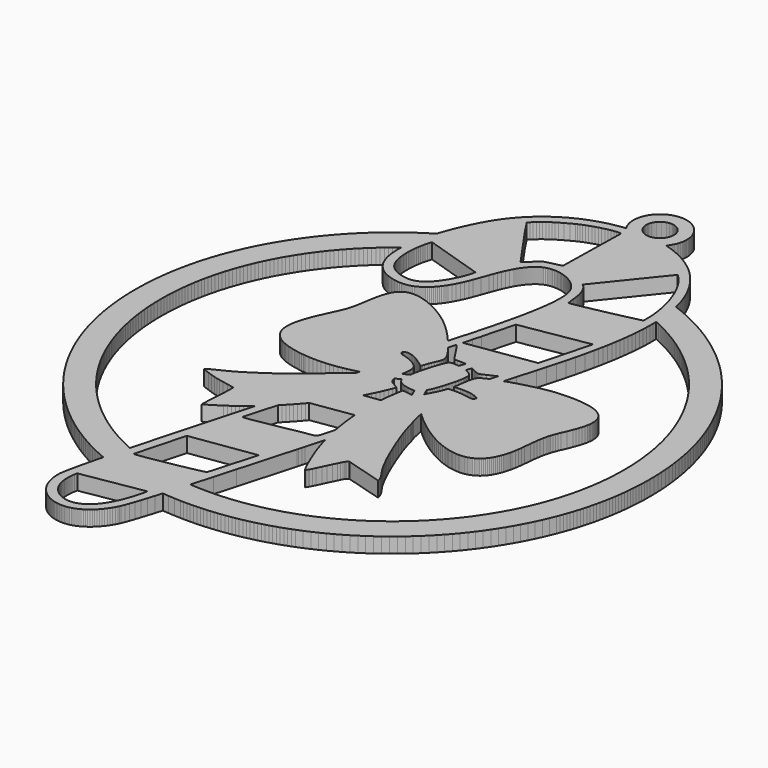
from build123d import *

# Parameters (mm, degrees)
F1_DEPTH = 3


with BuildPart() as f1:
    # F0 (on Top) → F1 (new body)
    with BuildSketch(Plane.XY):
        Polygon((0.271043, 67.329761), (2.5e-05, 67.336594), (-0.271018, 67.329761), (-0.53848, 67.309416), (-0.802081, 67.275913), (-1.061441, 67.229584), (-1.316253, 67.170783), (-1.566189, 67.099815), (-1.810918, 67.017011), (-2.050085, 66.922701), (-2.283384, 66.817215), (-2.510485, 66.700908), (-2.731059, 66.574086), (-2.944749, 66.437078), (-3.151251, 66.290241), (-3.350209, 66.133878), (-3.541319, 65.968347), (-3.72425, 65.79395), (-3.898621, 65.611019), (-4.064178, 65.41991), (-4.22054, 65.220952), (-4.367378, 65.01445), (-4.504385, 64.800759), (-4.631207, 64.580186), (-4.747514, 64.353084), (-4.852975, 64.119785), (-4.947285, 63.880619), (-5.030089, 63.63589), (-5.101082, 63.385954), (-5.159883, 63.131141), (-5.206213, 62.871782), (-5.23969, 62.608206), (-5.260035, 62.340719), (-5.266893, 62.069701), (-5.253228, 61.687532), (-5.212842, 61.312781), (-5.1467, 60.94636), (-5.055768, 60.589185), (-4.940935, 60.242221), (-4.803165, 59.906357), (-4.643399, 59.582533), (-4.462577, 59.271687), (-5.063998, 59.20298), (-5.664606, 59.119084), (-6.264046, 59.020024), (-6.861886, 58.905826), (-7.45777, 58.776464), (-8.051292, 58.632014), (-8.642045, 58.472451), (-9.229649, 58.297801), (-9.813696, 58.108063), (-10.393807, 57.903313), (-10.969574, 57.683502), (-11.540617, 57.448679), (-12.106554, 57.198844), (-12.666955, 56.934024), (-13.221437, 56.654243), (-13.769619, 56.359527), (-14.311097, 56.04985), (-14.845487, 55.725263), (-15.37241, 55.385767), (-15.891408, 55.031386), (-16.402177, 54.662121), (-16.904233, 54.278022), (-17.397247, 53.879064), (-17.880813, 53.465298), (-18.354523, 53.036724), (-18.817971, 52.593367), (-19.270777, 52.135227), (-19.712559, 51.662355), (-20.142937, 51.174726), (-20.561452, 50.67239), (-20.967776, 50.155323), (-21.361502, 49.623574), (-21.649919, 49.209249), (-21.947353, 48.756621), (-22.252153, 48.267823), (-22.562693, 47.74499), (-22.877348, 47.190279), (-23.194442, 46.605749), (-23.512399, 45.993609), (-23.829543, 45.355916), (-24.144224, 44.694831), (-24.454866, 44.01251), (-24.759793, 43.311013), (-25.057379, 42.592549), (-25.346, 41.859175), (-25.624003, 41.11305), (-25.889763, 40.356307), (-26.141655, 39.591082), (-26.830553, 39.169289), (-27.512162, 38.73693), (-28.18638, 38.294107), (-28.853105, 37.840945), (-29.512209, 37.377548), (-30.163592, 36.904016), (-30.807101, 36.420501), (-31.442685, 35.927081), (-32.070167, 35.423881), (-32.68947, 34.911005), (-33.300467, 34.388603), (-33.903056, 33.856752), (-34.497086, 33.31558), (-35.08248, 32.765213), (-35.659136, 32.205727), (-36.226902, 31.6373), (-36.785677, 31.059984), (-37.335333, 30.473929), (-37.875794, 29.879214), (-38.406908, 29.275989), (-38.928573, 28.664383), (-39.440688, 28.044445), (-39.943126, 27.416354), (-40.435759, 26.780185), (-40.918511, 26.136067), (-41.39123, 25.484099), (-41.85379, 24.824411), (-42.306138, 24.157127), (-42.748098, 23.482351), (-43.179594, 22.800183), (-43.600522, 22.110751), (-44.010707, 21.414156), (-44.410097, 20.710525), (-44.798539, 19.999985), (-45.175932, 19.282613), (-45.542149, 18.558561), (-45.897114, 17.82793), (-46.240675, 17.090822), (-46.572729, 16.347364), (-46.893175, 15.597657), (-47.201861, 14.84183), (-47.498711, 14.080007), (-47.783598, 13.312267), (-48.056419, 12.538761), (-48.317023, 11.759565), (-48.565333, 10.974832), (-48.801223, 10.184638), (-49.024591, 9.389135), (-49.235284, 8.588426), (-49.433226, 7.782585), (-49.618265, 6.971792), (-49.79035, 6.156122), (-49.949303, 5.335676), (-50.095023, 4.510608), (-50.227433, 3.681019), (-50.346381, 2.84701), (-50.451766, 2.008683), (-50.54346, 1.16619), (-50.621362, 0.319634), (-50.68537, -0.530911), (-50.735332, -1.385265), (-50.771171, -2.243379), (-50.792761, -3.105074), (-50.799975, -3.970299), (-50.790602, -4.956708), (-50.762535, -5.938571), (-50.716002, -6.915658), (-50.651131, -7.887843), (-50.568123, -8.854948), (-50.467108, -9.816821), (-50.348286, -10.773258), (-50.211838, -11.724107), (-50.057888, -12.66919), (-49.886641, -13.608329), (-49.69825, -14.541398), (-49.492916, -15.468194), (-49.270768, -16.388537), (-49.032008, -17.302302), (-48.776763, -18.20926), (-48.505237, -19.109309), (-48.217607, -20.002221), (-47.914027, -20.887842), (-47.594672, -21.766022), (-47.259697, -22.636607), (-46.909279, -23.499369), (-46.543595, -24.35418), (-46.162824, -25.200864), (-45.767117, -26.039242), (-45.356628, -26.869161), (-44.931584, -27.690445), (-44.492088, -28.502915), (-44.038342, -29.306418), (-43.570525, -30.100778), (-43.088789, -30.885816), (-42.593311, -31.661354), (-42.084269, -32.427266), (-41.561817, -33.183347), (-41.026131, -33.929447), (-40.477364, -34.665361), (-39.915719, -35.390963), (-39.341349, -36.106075), (-38.754406, -36.810518), (-38.155093, -37.504116), (-37.543562, -38.18669), (-36.919992, -38.858114), (-36.284535, -39.518184), (-35.637368, -40.166747), (-34.978645, -40.803601), (-34.308593, -41.428619), (-33.627314, -42.041623), (-32.935012, -42.642434), (-32.231863, -43.230876), (-31.517996, -43.806796), (-30.793639, -44.370015), (-30.058919, -44.920357), (-29.314013, -45.457669), (-28.5591, -45.981772), (-27.794356, -46.49249), (-27.019936, -46.98967), (-26.23599, -47.473133), (-25.442748, -47.942703), (-24.640311, -48.398252), (-23.828908, -48.839552), (-23.008666, -49.26645), (-22.179763, -49.678819), (-21.342375, -50.07643), (-20.496682, -50.459157), (-19.642861, -50.826797), (-20.029068, -52.36906), (-20.382255, -53.813583), (-20.69719, -55.142867), (-20.968589, -56.33941), (-21.191271, -57.385661), (-21.359978, -58.264146), (-21.469452, -58.957337), (-21.500363, -59.228965), (-21.514486, -59.447709), (-21.517864, -59.805367), (-21.507348, -60.157436), (-21.48332, -60.503765), (-21.446033, -60.844074), (-21.395893, -61.178211), (-21.333181, -61.505922), (-21.258251, -61.827029), (-21.171459, -62.141278), (-21.073085, -62.448491), (-20.963484, -62.748439), (-20.842986, -63.04092), (-20.711947, -63.325705), (-20.570647, -63.602591), (-20.419466, -63.871373), (-20.25871, -64.131825), (-20.088708, -64.383768), (-19.909815, -64.626922), (-19.722338, -64.861161), (-19.526606, -65.086179), (-19.322974, -65.301851), (-19.111747, -65.507895), (-18.893282, -65.704161), (-18.667908, -65.890394), (-18.435955, -66.066365), (-18.197728, -66.231922), (-17.953558, -66.386812), (-17.703825, -66.53083), (-17.448835, -66.663748), (-17.188891, -66.785388), (-16.92435, -66.895497), (-16.655567, -66.993897), (-16.382822, -67.080359), (-16.106496, -67.154679), (-15.826867, -67.21663), (-15.544317, -67.266007), (-15.259152, -67.302609), (-14.9717, -67.326231), (-14.682318, -67.336619), (-14.39131, -67.333597), (-14.099032, -67.316934), (-13.805764, -67.286429), (-13.511911, -67.241852), (-13.217754, -67.183025), (-12.923622, -67.109696), (-12.629896, -67.021685), (-12.336856, -66.918738), (-12.044832, -66.800705), (-11.754206, -66.667304), (-11.465255, -66.518384), (-11.178337, -66.35369), (-10.893806, -66.173045), (-10.611942, -65.976195), (-10.333101, -65.762962), (-10.057613, -65.533118), (-9.785807, -65.286433), (-9.51804, -65.02273), (-9.254617, -64.741781), (-8.995867, -64.443381), (-8.742121, -64.127304), (-8.493709, -63.793345), (-8.250987, -63.441275), (-8.014284, -63.070918), (-7.783906, -62.682044), (-7.560183, -62.274425), (-7.46031, -62.072114), (-7.349922, -61.824184), (-7.099351, -61.198328), (-6.811848, -60.4107), (-6.490792, -59.475141), (-6.139536, -58.405471), (-5.761482, -57.215557), (-5.359984, -55.919218), (-4.938395, -54.53032), (-3.715537, -54.634282), (-2.484704, -54.70939), (-1.246099, -54.754958), (-0.623976, -54.766439), (2.5e-05, -54.770299), (0.65659, -54.766134), (1.311173, -54.753713), (1.963725, -54.733038), (2.614168, -54.704183), (3.262478, -54.667226), (3.908577, -54.622167), (4.552442, -54.569081), (5.194021, -54.508019), (5.833237, -54.439033), (6.470066, -54.362147), (7.104456, -54.277463), (7.736332, -54.184956), (8.365693, -54.084753), (8.992438, -53.976854), (9.616542, -53.861335), (10.237978, -53.738221), (10.856646, -53.607589), (11.47252, -53.469464), (12.085549, -53.323922), (12.695707, -53.170988), (13.302894, -53.010714), (13.90711, -52.843176), (14.508277, -52.668399), (15.106345, -52.486433), (15.701289, -52.29733), (16.293033, -52.101166), (16.881526, -51.897966), (17.466742, -51.687781), (18.048605, -51.470662), (18.627065, -51.246634), (19.773646, -50.778181), (20.906054, -50.282805), (22.023883, -49.760886), (23.126751, -49.212805), (24.214277, -48.639019), (25.28603, -48.039884), (26.341629, -47.415831), (27.380667, -46.767217), (28.402737, -46.094472), (29.40746, -45.397979), (30.394427, -44.678143), (31.363234, -43.935371), (32.313499, -43.170069), (33.244815, -42.382592), (34.156752, -41.573399), (35.048952, -40.742845), (35.92101, -39.891335), (36.77252, -39.019302), (37.603074, -38.127102), (38.412268, -37.21514), (39.199744, -36.283849), (39.965046, -35.333584), (40.707818, -34.364778), (41.427654, -33.37781), (42.124147, -32.373087), (42.796892, -31.351017), (43.445506, -30.311979), (44.069584, -29.25638), (44.668719, -28.184627), (45.242505, -27.097101), (45.790561, -25.994233), (46.31248, -24.876379), (46.807882, -23.743971), (47.276334, -22.597389), (47.500337, -22.01893), (47.717456, -21.437067), (47.927666, -20.851851), (48.130866, -20.263358), (48.327031, -19.671614), (48.516134, -19.076695), (48.698099, -18.478602), (48.872877, -17.877434), (49.040415, -17.273219), (49.200689, -16.666032), (49.353622, -16.055873), (49.499164, -15.442844), (49.63729, -14.826971), (49.767922, -14.208277), (49.891036, -13.586866), (50.006555, -12.962763), (50.114454, -12.335993), (50.214682, -11.706657), (50.307164, -11.074756), (50.391873, -10.440365), (50.468733, -9.803536), (50.53772, -9.16432), (50.598781, -8.522741), (50.651867, -7.878877), (50.696927, -7.232777), (50.733909, -6.584467), (50.762738, -5.934024), (50.783414, -5.281473), (50.79586, -4.626889), (50.8, -3.970299), (50.790043, -2.954071), (50.760274, -1.942719), (50.710897, -0.936396), (50.642088, 0.064694), (50.554026, 1.060374), (50.446889, 2.05044), (50.320905, 3.034741), (50.176201, 4.013073), (50.013006, 4.985233), (49.831498, 5.951068), (49.631854, 6.910375), (49.414278, 7.862951), (49.178921, 8.808644), (48.925988, 9.747275), (48.655656, 10.678617), (48.368128, 11.602517), (48.063582, 12.518771), (47.742196, 13.427202), (47.404147, 14.327657), (47.049665, 15.219883), (46.678875, 16.103752), (46.292008, 16.979036), (45.889215, 17.845608), (45.470724, 18.703214), (45.036664, 19.551726), (44.587287, 20.390917), (44.122721, 21.220633), (43.643169, 22.040672), (43.148834, 22.850831), (42.639894, 23.650981), (42.116527, 24.440871), (41.578911, 25.220371), (41.027248, 25.989255), (40.461717, 26.747343), (39.882496, 27.494484), (39.289787, 28.230449), (38.683768, 28.955086), (38.064618, 29.668216), (37.432539, 30.369612), (36.787684, 31.05912), (36.130255, 31.736538), (35.460457, 32.401688), (34.778467, 33.054392), (34.084463, 33.694446), (33.378623, 34.321699), (32.661123, 34.935947), (31.932194, 35.536988), (31.191962, 36.124642), (30.440681, 36.698758), (29.678478, 37.259108), (28.905556, 37.805512), (28.122118, 38.33782), (27.328317, 38.855828), (26.524356, 39.359332), (25.710439, 39.848155), (24.886742, 40.322144), (24.053419, 40.781072), (23.210672, 41.224759), (22.358706, 41.653054), (21.497696, 42.065727), (20.627848, 42.462628), (19.749287, 42.843552), (18.862243, 43.208346), (17.966919, 43.556758), (17.826533, 44.131306), (17.672837, 44.700393), (17.505553, 45.263918), (17.324426, 45.821803), (17.129252, 46.373923), (16.919727, 46.920175), (16.695598, 47.460484), (16.45666, 47.994722), (16.202635, 48.522788), (15.933242, 49.044555), (15.64828, 49.559972), (15.347467, 50.068912), (15.030552, 50.571273), (14.697304, 51.066929), (14.347444, 51.555802), (13.980719, 52.037767), (13.735456, 52.343736), (13.484733, 52.643126), (13.22865, 52.935962), (12.96736, 53.22222), (12.70094, 53.501925), (12.42949, 53.775077), (12.153113, 54.041675), (11.871935, 54.30172), (11.586058, 54.555238), (11.295583, 54.802227), (11.000613, 55.042664), (10.701274, 55.276598), (10.397617, 55.504004), (10.08982, 55.724908), (9.777933, 55.939309), (9.462084, 56.147183), (8.818931, 56.543473), (8.161198, 56.913805), (7.489749, 57.258229), (6.805371, 57.576796), (6.108979, 57.869506), (5.401386, 58.13646), (4.683455, 58.377633), (3.956025, 58.593126), (4.105199, 58.770393), (4.246575, 58.954162), (4.379951, 59.14423), (4.50502, 59.340293), (4.621555, 59.542096), (4.729302, 59.749436), (4.828007, 59.962009), (4.917389, 60.179585), (4.997221, 60.401911), (5.067249, 60.628733), (5.127193, 60.859772), (5.176799, 61.094798), (5.215839, 61.333558), (5.244033, 61.575798), (5.261153, 61.821263), (5.266919, 62.069701), (5.260061, 62.340719), (5.239715, 62.608206), (5.206213, 62.871782), (5.159908, 63.131141), (5.101082, 63.385954), (5.030114, 63.63589), (4.94731, 63.880619), (4.853, 64.119785), (4.747539, 64.353084), (4.631207, 64.580186), (4.504385, 64.800759), (4.367403, 65.01445), (4.220566, 65.220952), (4.064203, 65.41991), (3.898646, 65.611019), (3.72425, 65.79395), (3.541344, 65.968347), (3.350235, 66.133878), (3.151276, 66.290241), (2.944774, 66.437078), (2.731084, 66.574086), (2.510511, 66.700908), (2.283409, 66.817215), (2.05011, 66.922701), (1.810944, 67.017011), (1.566215, 67.099815), (1.316279, 67.170783), (1.061466, 67.229584), (0.802107, 67.275913), (0.538531, 67.309416), align=None)
        Polygon((-19.521526, -58.08124), (-19.415074, -57.546469), (-7.197877, -55.48437), (-7.3787, -56.312816), (-7.586878, -57.143853), (-7.822794, -57.97103), (-7.951267, -58.381138), (-8.086801, -58.787843), (-8.229473, -59.190357), (-8.379282, -59.587867), (-8.53633, -59.97956), (-8.700618, -60.364599), (-8.872195, -60.74222), (-9.051112, -61.111613), (-9.237447, -61.471912), (-9.431198, -61.822381), (-9.632442, -62.162182), (-9.841205, -62.490477), (-10.057536, -62.806504), (-10.281514, -63.109424), (-10.513136, -63.398451), (-10.75248, -63.672745), (-10.999572, -63.931546), (-11.254486, -64.173989), (-11.517224, -64.399312), (-11.787861, -64.606678), (-12.066448, -64.795273), (-12.353011, -64.964335), (-12.647625, -65.113002), (-12.950292, -65.24051), (-13.261086, -65.345996), (-13.580059, -65.428698), (-13.862456, -65.480159), (-14.150569, -65.511782), (-14.443177, -65.523669), (-14.739087, -65.515846), (-15.037054, -65.488414), (-15.335885, -65.441398), (-15.63436, -65.374876), (-15.931236, -65.288897), (-16.225317, -65.183537), (-16.515359, -65.058823), (-16.80017, -64.914856), (-17.078554, -64.751687), (-17.349241, -64.56934), (-17.611039, -64.367918), (-17.862728, -64.147471), (-18.103113, -63.908051), (-18.330926, -63.649708), (-18.544997, -63.372543), (-18.744082, -63.076557), (-18.926988, -62.761851), (-19.092443, -62.428501), (-19.239306, -62.076508), (-19.366281, -61.705998), (-19.472224, -61.316972), (-19.555866, -60.90953), (-19.615988, -60.483725), (-19.651421, -60.039606), (-19.660895, -59.577224), (-19.643217, -59.096681), (-19.597167, -58.597978), align=None, mode=Mode.SUBTRACT)
        Polygon((-1.347495, -35.332594), (-1.631493, -36.335208), (-4.040962, -44.733413), (-4.347337, -44.822186), (-4.85775, -44.945732), (-5.542305, -45.098208), (-6.371158, -45.273798), (-8.342351, -45.670775), (-10.532389, -46.089926), (-12.702388, -46.484413), (-14.613433, -46.807476), (-15.397175, -46.927592), (-16.026587, -47.012301), (-16.471824, -47.055761), (-16.61602, -47.06018), (-16.702989, -47.052103), (-14.051966, -37.197208), align=None, mode=Mode.SUBTRACT)
        Polygon((2.488006, -20.623276), (2.619426, -21.330031), (1.711122, -24.536197), (1.59954, -24.616842), (1.487094, -24.685879), (1.372235, -24.74468), (1.253363, -24.794591), (1.128954, -24.837009), (0.997433, -24.873255), (0.706831, -24.932767), (-0.02827, -25.037999), (-0.497713, -25.105538), (-1.051687, -25.197613), (-3.341954, -25.633883), (-4.897323, -25.932841), (-6.543827, -26.242874), (-8.144789, -26.531875), (-9.563456, -26.767688), (-10.161702, -26.855598), (-10.663098, -26.918183), (-11.050549, -26.951432), (-11.196218, -26.955775), (-11.306962, -26.951305), (-9.46056, -20.433589), (-9.031402, -20.004202), (-8.606993, -19.568693), (-8.187487, -19.127191), (-7.77301, -18.67977), (-7.363714, -18.226557), (-6.959702, -17.767656), (-6.56115, -17.303166), (-6.168161, -16.833215), (1.868221, -15.61404), (1.923669, -16.334562), (1.990369, -17.053865), (2.068195, -17.771694), (2.156993, -18.487796), (2.256663, -19.201917), (2.367051, -19.913829), align=None, mode=Mode.SUBTRACT)
        Polygon((-28.034767, 32.14436), (-27.519478, 32.539102), (-27.536318, 31.909944), (-27.529536, 31.291886), (-27.498091, 30.686248), (-27.440941, 30.094403), (-27.357019, 29.517721), (-27.304721, 29.235476), (-27.245335, 28.957524), (-27.178737, 28.684042), (-27.104797, 28.415209), (-27.023365, 28.151176), (-26.934363, 27.892096), (-26.837615, 27.638172), (-26.733017, 27.389557), (-26.620419, 27.146428), (-26.499693, 26.908963), (-26.370737, 26.677315), (-26.233374, 26.451636), (-26.087502, 26.232129), (-25.932994, 26.018973), (-25.769697, 25.812293), (-25.597485, 25.612293), (-25.416256, 25.419126), (-25.225858, 25.23297), (-25.026163, 25.053976), (-24.817045, 24.882348), (-24.598351, 24.718213), (-24.369979, 24.5618), (-24.05954, 24.370792), (-23.734598, 24.19383), (-23.396981, 24.031397), (-23.04857, 23.883925), (-22.691166, 23.751921), (-22.326676, 23.635843), (-21.956903, 23.536173), (-21.583701, 23.453344), (-21.208949, 23.387863), (-20.834452, 23.340187), (-20.462088, 23.310774), (-20.093686, 23.30008), (-19.731126, 23.308615), (-19.376212, 23.336834), (-19.030823, 23.385196), (-18.696788, 23.454182), (-18.408218, 23.531932), (-18.12605, 23.623473), (-17.850231, 23.728426), (-17.580661, 23.84646), (-17.317212, 23.977244), (-17.059783, 24.12045), (-16.808323, 24.27572), (-16.56268, 24.44275), (-16.322802, 24.62116), (-16.088563, 24.810618), (-15.859862, 25.010821), (-15.636596, 25.221413), (-15.418689, 25.442037), (-15.20604, 25.672364), (-14.998548, 25.912064), (-14.79611, 26.160806), (-14.59865, 26.418235), (-14.406016, 26.683995), (-14.218158, 26.957807), (-14.034973, 27.23929), (-13.682167, 27.823922), (-13.346862, 28.435224), (-13.028244, 29.070452), (-12.725527, 29.726966), (-12.437923, 30.401997), (-12.16467, 31.092851), (-11.660022, 32.455587), (-11.156569, 33.83727), (-10.89881, 34.524848), (-10.633608, 35.204705), (-10.358374, 35.872725), (-10.07049, 36.524717), (-9.767367, 37.156542), (-9.446438, 37.76406), (-9.278493, 38.057404), (-9.105113, 38.343129), (-8.925992, 38.620675), (-8.7408, 38.889559), (-8.549208, 39.149274), (-8.35091, 39.399235), (-8.145551, 39.639011), (-7.932852, 39.868018), (-7.712456, 40.085747), (-7.484034, 40.291715), (-7.24728, 40.485365), (-7.001891, 40.666187), (-6.745503, 40.829967), (-6.477483, 40.972562), (-6.198895, 41.094457), (-5.910758, 41.196082), (-5.614162, 41.277845), (-5.310099, 41.340227), (-4.99966, 41.383661), (-4.683862, 41.408579), (-4.363771, 41.415411), (-4.040429, 41.404616), (-3.714877, 41.376625), (-3.388182, 41.331896), (-3.06136, 41.27086), (-2.735504, 41.193949), (-2.411603, 41.10162), (-2.09075, 40.994279), (-1.773987, 40.87241), (-1.462329, 40.736444), (-1.156868, 40.586812), (-0.858622, 40.423948), (-0.56863, 40.248307), (-0.28796, 40.060321), (-0.017653, 39.860449), (0.241224, 39.649121), (0.48768, 39.426744), (0.720598, 39.193826), (0.938987, 38.950748), (1.141755, 38.697992), (1.327887, 38.435966), (1.496314, 38.165151), (1.646022, 37.885929), (1.775917, 37.598807), (1.844142, 37.421134), (1.906372, 37.234622), (1.962734, 37.039474), (2.013356, 36.835918), (2.097837, 36.404448), (2.160727, 35.941965), (2.202967, 35.450247), (2.225472, 34.931071), (2.22918, 34.386139), (2.215007, 33.817255), (2.183892, 33.226172), (2.136775, 32.614641), (2.07457, 31.984417), (1.998218, 31.337275), (1.908632, 30.67497), (1.806753, 29.999254), (1.69352, 29.311879), (1.569822, 28.614624), (1.294867, 27.197482), (0.989305, 25.761899), (0.660578, 24.321948), (0.316128, 22.891699), (-0.036627, 21.48525), (-0.390271, 20.116648), (-1.070381, 17.549292), (-2.437282, 12.724282), (-3.026232, 13.409219), (-3.633394, 14.087348), (-4.263111, 14.758187), (-4.91965, 15.42128), (-5.607406, 16.076092), (-5.964301, 16.400272), (-6.33062, 16.722192), (-6.706895, 17.0418), (-7.093687, 17.359046), (-7.491476, 17.673853), (-7.900873, 17.986197), (-8.31756, 18.288737), (-8.786622, 18.610402), (-9.301632, 18.944692), (-9.856191, 19.285179), (-10.443845, 19.625361), (-11.05822, 19.958787), (-11.692865, 20.279004), (-12.341377, 20.579537), (-12.997332, 20.853908), (-13.32611, 20.979282), (-13.654329, 21.095691), (-13.981201, 21.202345), (-14.30594, 21.298408), (-14.627708, 21.383092), (-14.945741, 21.455583), (-15.259202, 21.515095), (-15.56733, 21.560765), (-15.869285, 21.591854), (-16.164281, 21.607501), (-16.451504, 21.606916), (-16.730167, 21.589289), (-16.999458, 21.553805), (-17.258589, 21.499703), (-17.542739, 21.41347), (-17.80827, 21.30298), (-18.055996, 21.169401), (-18.286705, 21.013852), (-18.501157, 20.837423), (-18.700166, 20.641259), (-18.884544, 20.426477), (-19.055055, 20.194194), (-19.212484, 19.945579), (-19.357645, 19.681698), (-19.491325, 19.403695), (-19.614286, 19.112713), (-19.727367, 18.809868), (-19.831329, 18.496255), (-19.92696, 18.17304), (-20.015073, 17.841316), (-20.171867, 17.156887), (-20.308037, 16.451961), (-20.429906, 15.735529), (-20.543825, 15.016582), (-20.773085, 13.60711), (-20.901076, 12.934569), (-21.046465, 12.295505), (-21.176996, 11.839042), (-21.342299, 11.356188), (-21.537651, 10.849127), (-21.758326, 10.320071), (-21.999626, 9.771228), (-22.256775, 9.204858), (-22.799853, 8.02828), (-23.349814, 6.808038), (-23.615548, 6.187084), (-23.868863, 5.561838), (-24.104981, 4.93456), (-24.319205, 4.307434), (-24.506834, 3.68267), (-24.589181, 3.371875), (-24.663121, 3.062478), (-24.728043, 2.754808), (-24.783364, 2.449119), (-24.828475, 2.145665), (-24.862815, 1.844751), (-24.885777, 1.546631), (-24.89675, 1.25161), (-24.8952, 0.959942), (-24.880494, 0.671932), (-24.852046, 0.387807), (-24.809272, 0.107874), (-24.751589, -0.167564), (-24.678411, -0.438277), (-24.58913, -0.703961), (-24.483162, -0.964362), (-24.359895, -1.219175), (-24.218773, -1.468145), (-24.05921, -1.710969), (-23.880597, -1.947418), (-23.682325, -2.177161), (-23.463834, -2.399944), (-23.224541, -2.615514), (-22.96381, -2.82354), (-22.681108, -3.023794), (-22.3758, -3.215996), (-22.047327, -3.399815), (-21.69508, -3.57505), (-21.318474, -3.741369), (-20.916925, -3.898544), (-20.489824, -4.046245), (-20.036587, -4.184218), (-19.556654, -4.312183), (-19.04939, -4.429887), (-18.635066, -4.515104), (-18.221503, -4.591863), (-17.808804, -4.660341), (-17.397019, -4.720717), (-16.986301, -4.773168), (-16.576726, -4.817872), (-15.76131, -4.884725), (-14.951558, -4.922698), (-14.148181, -4.933213), (-13.351942, -4.917694), (-12.563577, -4.877486), (-11.783847, -4.814087), (-11.013465, -4.72882), (-10.253193, -4.623181), (-9.503791, -4.498518), (-8.765972, -4.356278), (-8.040472, -4.197858), (-7.328078, -4.024681), (-6.629502, -3.838118), (-6.805981, -4.46118), (-8.979281, -6.209335), (-9.182252, -6.372631), (-9.186393, -6.375908), (-9.186291, -6.37601), (-9.452356, -6.611391), (-9.739986, -6.882079), (-10.437901, -7.552004), (-10.877194, -7.962595), (-11.39604, -8.431149), (-12.008942, -8.96333), (-12.730404, -9.564776), (-17.48348, -13.155397), (-18.528538, -13.826211), (-19.36656, -14.372209), (-20.073061, -14.831035), (-20.723454, -15.240356), (-21.393226, -15.637916), (-22.157842, -16.061334), (-23.092766, -16.548329), (-24.273459, -17.136593), (-24.66782, -17.322724), (-25.172213, -17.580432), (-25.416154, -17.726812), (-25.628194, -17.879924), (-25.716052, -17.957825), (-25.788493, -18.035981), (-25.843078, -18.113985), (-25.877291, -18.191328), (-24.66815, -18.624525), (-23.757509, -18.935065), (-23.037775, -19.156832), (-22.401327, -19.323609), (-21.740571, -19.469252), (-20.947913, -19.627596), (-19.915708, -19.832472), (-18.536387, -20.11774), (-18.526709, -20.578572), (-18.527776, -21.043722), (-18.538088, -21.512454), (-18.556122, -21.983979), (-18.609259, -22.932492), (-18.67502, -23.883239), (-18.741263, -24.830253), (-18.795797, -25.767513), (-18.82648, -26.68905), (-18.829096, -27.142034), (-18.821171, -27.58882), (-15.96837, -25.797307), (-15.458821, -25.446228), (-14.952396, -25.086615), (-14.449298, -24.71862), (-13.94968, -24.342369), (-13.453694, -23.957991), (-12.961493, -23.565612), (-12.47328, -23.165384), (-11.989181, -22.757409), (-12.918567, -26.038327), (-13.014325, -26.343077), (-13.102742, -26.648867), (-13.2715, -27.258848), (-14.131366, -30.334737), (-15.379929, -34.842653), (-16.845331, -40.207514), (-17.605629, -43.031613), (-18.355691, -45.85429), (-19.107302, -45.516267), (-19.851649, -45.165188), (-20.588605, -44.80118), (-21.317991, -44.424397), (-22.039656, -44.034964), (-22.753498, -43.633085), (-23.459364, -43.218837), (-24.157051, -42.792421), (-24.846483, -42.353941), (-25.527457, -41.903574), (-26.199871, -41.441472), (-26.863548, -40.967736), (-27.51836, -40.482571), (-28.164155, -39.986077), (-28.800781, -39.478407), (-29.42811, -38.959714), (-30.045965, -38.430175), (-30.654219, -37.889891), (-31.252719, -37.339016), (-31.841313, -36.777727), (-32.4199, -36.206125), (-32.988275, -35.624414), (-33.546313, -35.032671), (-34.093861, -34.431097), (-34.630792, -33.819821), (-35.156953, -33.198968), (-35.672166, -32.568744), (-36.176331, -31.929222), (-36.669294, -31.280583), (-37.150878, -30.622977), (-37.620956, -29.956557), (-38.079375, -29.28145), (-38.526009, -28.597784), (-38.960704, -27.905761), (-39.383284, -27.205483), (-39.793621, -26.497128), (-40.191588, -25.780797), (-40.577033, -25.056694), (-40.949778, -24.32492), (-41.309722, -23.585627), (-41.65666, -22.838994), (-41.990518, -22.085122), (-42.311091, -21.324189), (-42.618254, -20.556322), (-42.911878, -19.781698), (-43.191786, -19.000419), (-43.457825, -18.212664), (-43.709895, -17.418583), (-43.947817, -16.618306), (-44.171438, -15.811957), (-44.380633, -14.999716), (-44.575247, -14.181734), (-44.75513, -13.358139), (-44.920154, -12.529083), (-45.070141, -11.694719), (-45.204964, -10.855173), (-45.324471, -10.010597), (-45.428535, -9.16117), (-45.516978, -8.306994), (-45.589673, -7.448245), (-45.646467, -6.585052), (-45.687209, -5.717565), (-45.71177, -4.845914), (-45.719975, -3.970299), (-45.714768, -3.272257), (-45.699147, -2.576754), (-45.673213, -1.883842), (-45.637044, -1.193571), (-45.590689, -0.50607), (-45.534224, 0.178613), (-45.467753, 0.8604), (-45.391324, 1.539215), (-45.305015, 2.215007), (-45.208927, 2.887675), (-45.103085, 3.557168), (-44.987616, 4.22341), (-44.862547, 4.8863), (-44.728003, 5.54576), (-44.583985, 6.201766), (-44.430645, 6.854215), (-44.268009, 7.503008), (-44.096178, 8.148117), (-43.915203, 8.789441), (-43.72516, 9.426931), (-43.526126, 10.060457), (-43.318201, 10.689996), (-43.101438, 11.315471), (-42.875886, 11.936806), (-42.641672, 12.553899), (-42.398823, 13.1667), (-42.147439, 13.775131), (-41.887597, 14.379118), (-41.619373, 14.978583), (-41.342793, 15.573477), (-41.058008, 16.163671), (-40.765019, 16.749141), (-40.463953, 17.32981), (-40.15486, 17.905578), (-39.837817, 18.476392), (-39.512926, 19.042151), (-39.180211, 19.602831), (-38.83975, 20.158304), (-38.491668, 20.708518), (-38.135992, 21.253399), (-37.772823, 21.792895), (-37.402237, 22.326905), (-37.024285, 22.855352), (-36.639043, 23.378185), (-36.246587, 23.895304), (-35.84702, 24.406657), (-35.440391, 24.912142), (-35.026778, 25.411735), (-34.60623, 25.905308), (-34.178875, 26.39281), (-33.744738, 26.874165), (-33.303921, 27.349323), (-32.8565, 27.818182), (-32.402526, 28.280665), (-31.9421, 28.736696), (-31.475274, 29.186226), (-31.002122, 29.629176), (-30.522748, 30.065472), (-30.037202, 30.495011), (-29.545534, 30.917744), (-29.047872, 31.333592), (-28.544266, 31.742482), align=None, mode=Mode.SUBTRACT)
        Polygon((-1.061669, -2.254936), (0.089408, -1.719809), (0.106121, -1.795704), (0.134823, -1.896085), (0.171704, -1.992833), (0.216408, -2.086), (0.268554, -2.175637), (0.3937, -2.344522), (0.54417, -2.499868), (0.716991, -2.642057), (0.909218, -2.77147), (1.117879, -2.888488), (1.340002, -2.993517), (1.57259, -3.086938), (1.812696, -3.169133), (2.057375, -3.240481), (2.303628, -3.30139), (2.548509, -3.352216), (2.789022, -3.393364), (3.245104, -3.448202), (3.438855, -3.46108), (3.617366, -3.465068), (3.78173, -3.460166), (3.932911, -3.446374), (4.55991, -4.929988), (4.421149, -4.869942), (4.260393, -4.819955), (4.072382, -4.777537), (3.851758, -4.740199), (3.291434, -4.67073), (2.536901, -4.591533), (2.425573, -5.165954), (2.323186, -5.742076), (2.229663, -6.319774), (2.144903, -6.898945), (2.06883, -7.479411), (2.001368, -8.061046), (1.942414, -8.643696), (1.891919, -9.227287), (-1.282979, -9.652584), (-0.941426, -9.01766), (-0.610718, -8.37758), (-0.291059, -7.732497), (0.017323, -7.082561), (0.314198, -6.427978), (0.599313, -5.768899), (0.872465, -5.105476), (1.133424, -4.437913), (0.88232, -4.26593), (0.652602, -4.118635), (0.252044, -3.880993), (-0.078918, -3.690772), (-0.221615, -3.602787), (-0.350901, -3.513811), (-0.468097, -3.419627), (-0.574523, -3.315945), (-0.671551, -3.19847), (-0.760451, -3.062935), (-0.842594, -2.9051), (-0.919302, -2.72067), (-0.99187, -2.50538), align=None, mode=Mode.SUBTRACT)
        Polygon((-2.611831, -49.614785), (-3.47406, -49.557305), (-2.27391, -45.371766), (-1.091768, -41.194482), (2.042719, -30.129607), (2.127987, -29.842816), (2.31013, -29.215105), (2.453107, -28.681223), (3.486912, -25.032081), (3.721075, -25.854304), (3.968699, -26.669898), (4.229506, -27.478457), (4.503242, -28.279547), (4.789678, -29.072713), (5.088534, -29.857548), (5.399583, -30.633619), (5.722544, -31.400521), (6.063031, -32.209308), (6.462928, -33.137704), (6.675907, -33.598256), (6.892595, -34.030514), (7.109282, -34.415095), (7.216496, -34.583446), (7.322287, -34.73262), (7.420026, -34.618879), (7.524471, -34.474887), (7.634453, -34.304554), (7.748803, -34.111794), (7.985862, -33.674736), (8.226298, -33.195082), (8.67951, -32.233438), (9.033205, -31.477915), (9.450222, -30.641315), (9.852914, -29.829303), (10.049815, -29.407587), (10.251796, -29.0084), (10.387686, -28.78234), (10.452583, -28.694456), (10.547706, -28.583407), (10.745292, -28.367558), (10.797743, -28.340634), (10.92294, -28.273527), (18.324805, -30.433721), (18.276519, -30.204512), (18.210073, -29.977715), (18.127447, -29.753458), (18.030673, -29.531894), (17.921707, -29.313073), (17.80253, -29.097148), (17.541545, -28.674466), (17.263643, -28.264739), (16.984726, -27.868905), (16.720718, -27.487931), (16.487521, -27.122704), (16.149015, -26.537539), (15.813354, -25.926186), (15.481173, -25.291872), (15.15298, -24.637848), (14.829358, -23.967389), (14.510918, -23.283723), (14.198194, -22.59015), (13.891793, -21.889898), (13.300151, -20.482408), (12.74064, -19.087287), (12.217781, -17.730597), (11.736222, -16.438423), (11.418519, -15.538831), (11.124616, -14.635226), (10.848213, -13.710488), (10.58291, -12.747523), (10.469194, -12.337212), (10.362514, -11.993397), (10.259822, -11.70686), (10.158019, -11.46843), (10.158222, -11.46843), (9.616034, -8.924214), (10.140874, -9.416059), (10.686517, -9.907016), (11.251082, -10.394747), (11.832768, -10.876915), (12.429744, -11.351184), (13.040182, -11.815242), (13.662254, -12.266727), (14.294155, -12.703327), (14.934032, -13.122707), (15.580055, -13.522528), (16.230448, -13.900455), (16.883329, -14.254175), (17.536871, -14.581327), (18.189296, -14.879599), (18.838723, -15.146655), (19.483375, -15.380157), (19.803339, -15.483586), (20.121397, -15.577769), (20.437348, -15.662377), (20.750962, -15.737154), (21.06201, -15.801797), (21.370265, -15.856001), (21.675471, -15.899486), (21.977452, -15.931972), (22.275927, -15.95313), (22.570719, -15.962706), (22.861549, -15.960395), (23.148214, -15.945917), (23.430484, -15.918942), (23.708131, -15.879216), (23.980927, -15.826435), (24.248669, -15.760319), (24.511076, -15.680563), (24.767946, -15.586888), (25.019051, -15.478963), (25.264161, -15.356561), (25.503048, -15.219324), (25.735483, -15.067026), (25.961264, -14.89931), (26.18011, -14.715922), (26.391845, -14.516583), (26.596188, -14.300962), (26.792961, -14.068806), (26.981912, -13.81981), (27.162811, -13.553669), (27.335429, -13.270078), (27.499564, -12.968808), (27.654936, -12.649505), (27.798141, -12.323902), (27.928926, -11.998325), (28.048001, -11.672773), (28.156103, -11.347171), (28.253969, -11.021517), (28.342361, -10.695788), (28.42199, -10.369906), (28.493593, -10.043871), (28.615665, -9.391193), (28.714522, -8.737422), (28.796005, -8.082356), (28.866033, -7.425665), (28.995268, -6.106389), (29.066261, -5.443271), (29.14937, -4.777435), (29.250488, -4.108653), (29.375481, -3.436645), (29.530269, -2.761132), (29.620667, -2.421966), (29.720743, -2.081835), (29.851883, -1.690853), (30.008855, -1.274902), (30.18663, -0.836625), (30.380178, -0.378663), (30.794401, 0.585699), (31.211215, 1.596974), (31.407989, 2.113585), (31.590285, 2.63398), (31.753073, 3.155493), (31.8913, 3.675507), (31.999961, 4.191356), (32.041617, 4.44688), (32.073977, 4.700372), (32.096431, 4.951501), (32.108318, 5.199939), (32.109054, 5.445328), (32.097955, 5.687365), (32.074434, 5.925718), (32.037858, 6.160059), (31.987566, 6.39003), (31.922949, 6.615328), (31.843396, 6.835597), (31.748247, 7.050507), (31.636868, 7.259777), (31.508649, 7.463003), (31.362955, 7.659903), (31.199176, 7.850149), (31.016626, 8.03336), (30.814747, 8.209255), (30.592852, 8.377479), (30.350333, 8.537727), (30.086554, 8.689619), (29.80088, 8.832875), (29.492702, 8.967114), (29.161384, 9.092057), (28.806292, 9.207348), (28.426791, 9.312631), (28.022245, 9.407627), (27.592045, 9.491955), (27.135557, 9.565335), (26.652144, 9.627387), (26.141172, 9.677806), (25.602006, 9.716237), (25.034037, 9.742399), (24.436603, 9.755911), (23.809122, 9.756445), (23.150932, 9.743694), (22.461398, 9.717329), (21.739911, 9.676994), (21.321903, 9.642145), (20.865897, 9.589465), (20.375829, 9.519996), (19.855663, 9.43483), (19.309309, 9.335059), (18.740755, 9.221749), (18.153888, 9.095994), (17.552695, 8.958834), (16.323056, 8.65472), (15.083358, 8.318043), (13.865123, 7.957414), (13.273913, 7.770825), (12.699898, 7.581494), (13.361619, 9.916897), (14.429461, 13.561263), (14.946579, 15.376754), (15.447112, 17.185564), (15.926994, 18.986017), (16.382162, 20.776489), (16.808602, 22.555276), (17.202252, 24.320754), (17.385513, 25.197968), (17.559045, 26.07122), (17.722367, 26.940332), (17.874971, 27.805075), (18.016322, 28.665221), (18.145938, 29.520591), (18.263311, 30.370983), (18.367934, 31.216168), (18.459298, 32.055943), (18.536895, 32.890104), (18.600217, 33.718424), (18.648756, 34.540723), (18.682005, 35.3568), (18.69948, 36.166425), (18.700648, 36.969395), (18.685027, 37.765507), (19.428384, 37.424131), (20.164501, 37.069928), (20.893278, 36.703051), (21.614511, 36.323651), (22.328124, 35.931831), (23.033914, 35.527767), (23.731779, 35.111614), (24.421541, 34.683471), (25.103099, 34.243518), (25.776276, 33.791881), (26.440917, 33.328686), (27.096923, 32.854138), (27.744115, 32.368312), (28.382392, 31.871387), (29.01155, 31.363514), (29.631488, 30.844795), (30.242053, 30.315408), (30.843093, 29.775506), (31.434456, 29.225189), (32.01604, 28.664637), (32.587667, 28.093975), (33.149184, 27.513356), (33.700491, 26.922933), (34.241384, 26.322807), (34.771787, 25.713182), (35.291522, 25.094159), (35.800436, 24.465864), (36.298403, 23.828502), (36.785245, 23.182174), (37.260886, 22.527031), (37.725121, 21.863202), (38.177826, 21.190864), (38.618871, 20.510119), (39.048106, 19.821144), (39.465377, 19.124066), (39.870558, 18.419039), (40.26347, 17.706213), (40.644013, 16.985691), (41.012034, 16.257651), (41.367354, 15.522245), (41.709873, 14.779574), (42.039438, 14.029817), (42.355872, 13.2731), (42.659071, 12.509602), (42.948885, 11.739397), (43.225161, 10.962691), (43.487746, 10.179609), (43.736539, 9.390278), (43.971337, 8.594852), (44.192038, 7.793482), (44.398489, 6.986321), (44.590513, 6.17347), (44.768033, 5.355107), (44.930847, 4.53136), (45.078853, 3.702406), (45.211898, 2.86832), (45.329805, 2.029308), (45.432472, 1.185494), (45.519721, 0.337007), (45.591451, -0.515976), (45.647458, -1.373353), (45.687666, -2.234971), (45.711897, -3.100654), (45.72, -3.970299), (45.705065, -5.150358), (45.660513, -6.323051), (45.586675, -7.488022), (45.483958, -8.644915), (45.352665, -9.793351), (45.193204, -10.933024), (45.005904, -12.063501), (44.791122, -13.18448), (44.549238, -14.295577), (44.280607, -15.396464), (43.985586, -16.486734), (43.66453, -17.566056), (43.31777, -18.63405), (42.945736, -19.690385), (42.548708, -20.73468), (42.127094, -21.766606), (41.681248, -22.785781), (41.211525, -23.791824), (40.718257, -24.784431), (40.20185, -25.763195), (39.662633, -26.72776), (39.100963, -27.677796), (38.51722, -28.612922), (37.911761, -29.532809), (37.284914, -30.437049), (36.637062, -31.325312), (35.968559, -32.197243), (35.279787, -33.052487), (34.571076, -33.890661), (33.842782, -34.711411), (33.095286, -35.514382), (32.328942, -36.299242), (31.544082, -37.065585), (30.741112, -37.813082), (29.920362, -38.541376), (29.082187, -39.250087), (28.226944, -39.938858), (27.355013, -40.607361), (26.466749, -41.255213), (25.562509, -41.88206), (24.642648, -42.48752), (23.707496, -43.071263), (22.75746, -43.632933), (21.792895, -44.172149), (20.814132, -44.688557), (19.821525, -45.181825), (18.815482, -45.651547), (17.796307, -46.097393), (16.764406, -46.519008), (15.720085, -46.916035), (14.66375, -47.288069), (13.595756, -47.63483), (12.516434, -47.955886), (11.426165, -48.250907), (10.325303, -48.519537), (9.214206, -48.761421), (8.093227, -48.976204), (6.962724, -49.163503), (5.823077, -49.322965), (4.674616, -49.454257), (3.517722, -49.556975), (2.352751, -49.630813), (1.180059, -49.675364), (2.5e-05, -49.690299), (-0.874751, -49.68174), (-1.745386, -49.656416), align=None, mode=Mode.SUBTRACT)
        Polygon((-1.012774, 10.980344), (-0.563372, 12.566701), (-0.14925, 12.025503), (0.214376, 11.512372), (0.854532, 10.535082), (1.163218, 10.053295), (1.485722, 9.564319), (1.838122, 9.059316), (2.236521, 8.529498), (2.842006, 8.506206), (3.403067, 8.50077), (3.952088, 8.485759), (4.232224, 8.466099), (4.52153, 8.433791), (4.108933, 7.2406), (3.478454, 7.306843), (3.220999, 7.328002), (2.997048, 7.338035), (2.80289, 7.334529), (2.634717, 7.315175), (2.488794, 7.277557), (2.361336, 7.219315), (2.248637, 7.138086), (2.14691, 7.031507), (2.052371, 6.897192), (1.961312, 6.732803), (1.869948, 6.535953), (1.774546, 6.304255), (1.556487, 5.726887), (1.377569, 5.224577), (1.180135, 4.630801), (0.973277, 3.965016), (0.766089, 3.246704), (0.567665, 2.495347), (0.387121, 1.730426), (0.233502, 0.971423), (0.169647, 0.600227), (0.115926, 0.23782), (-1.021385, -0.291008), (-0.92517, 0.580695), (-0.89027, 0.954405), (-0.868629, 1.292047), (-0.863625, 1.597609), (-0.878662, 1.875079), (-0.917067, 2.128495), (-0.946074, 2.247417), (-0.982218, 2.361844), (-1.025855, 2.472233), (-1.077468, 2.579116), (-1.137437, 2.682977), (-1.206195, 2.784348), (-1.284173, 2.883687), (-1.371778, 2.981503), (-1.577543, 3.174644), (-1.826895, 3.36771), (-2.123211, 3.564738), (-2.46982, 3.769741), (-2.870073, 3.986708), (-3.22646, 4.163492), (-3.544011, 4.299433), (-3.868776, 4.417593), (-4.24688, 4.540987), (-4.59293, 4.640631), (-4.86476, 4.706214), (-5.074412, 4.757268), (-5.159705, 4.78343), (-5.233949, 4.813275), (-5.298669, 4.849241), (-5.355387, 4.893742), (-5.405577, 4.949215), (-5.450764, 5.018126), (-5.492471, 5.102885), (-5.532171, 5.205933), (-5.611597, 5.476697), (-5.48198, 5.569712), (-5.344109, 5.643397), (-5.198593, 5.698693), (-5.046066, 5.736565), (-4.887138, 5.757901), (-4.722444, 5.763666), (-4.552594, 5.754802), (-4.378198, 5.732247), (-4.19989, 5.696941), (-4.018305, 5.649824), (-3.834028, 5.591785), (-3.647719, 5.52384), (-3.271444, 5.361838), (-2.894457, 5.171313), (-2.521687, 4.959782), (-2.158111, 4.734738), (-1.808734, 4.503674), (-1.478509, 4.274134), (-0.895426, 3.849497), (-0.448589, 3.520897), (-0.33975, 3.895903), (-0.229768, 4.243959), (-0.010109, 4.866208), (0.202997, 5.401894), (0.402082, 5.865317), (0.579704, 6.270701), (0.728421, 6.632321), (0.789584, 6.801206), (0.840765, 6.964477), (0.880974, 7.123938), (0.909295, 7.281393), (0.924814, 7.438593), (0.926592, 7.597343), (0.913689, 7.759421), (0.88519, 7.926603), (0.840156, 8.100695), (0.777646, 8.283448), (0.696747, 8.47664), (0.596519, 8.682101), (0.476047, 8.901582), (0.334366, 9.136863), (0.170561, 9.38972), (-0.016281, 9.661982), (-0.462839, 10.271709), align=None, mode=Mode.SUBTRACT)
        Polygon((-24.909983, 36.926088), (-13.419582, 33.256499), (-13.495731, 32.861529), (-13.59695, 32.452285), (-13.721232, 32.031889), (-13.866495, 31.603417), (-14.030681, 31.169991), (-14.211783, 30.734762), (-14.407718, 30.300828), (-14.61643, 29.871289), (-14.835886, 29.449268), (-15.064003, 29.037915), (-15.298776, 28.640278), (-15.53812, 28.259532), (-15.780004, 27.898776), (-16.022345, 27.561134), (-16.263137, 27.249704), (-16.500297, 26.967586), (-16.759022, 26.6843), (-17.022166, 26.41915), (-17.291355, 26.173709), (-17.568266, 25.949478), (-17.854549, 25.74798), (-18.151856, 25.570739), (-18.461812, 25.419253), (-18.622061, 25.353645), (-18.786119, 25.295073), (-18.95414, 25.243663), (-19.126378, 25.199696), (-19.303035, 25.163272), (-19.484289, 25.134646), (-19.67037, 25.113971), (-19.861479, 25.101448), (-20.057796, 25.097283), (-20.259599, 25.101626), (-20.467015, 25.114707), (-20.680299, 25.136704), (-20.899653, 25.167819), (-21.125256, 25.208205), (-21.357336, 25.258065), (-21.596096, 25.317628), (-22.094495, 25.466497), (-22.32726, 25.547853), (-22.549536, 25.634772), (-22.7616, 25.72705), (-22.963657, 25.824586), (-23.156037, 25.927228), (-23.338942, 26.034822), (-23.512678, 26.147192), (-23.677499, 26.264235), (-23.833658, 26.385799), (-23.98141, 26.511707), (-24.121034, 26.641857), (-24.252784, 26.776045), (-24.376939, 26.91417), (-24.493728, 27.05608), (-24.603431, 27.201597), (-24.706301, 27.350593), (-24.89266, 27.658466), (-25.054839, 27.978481), (-25.194971, 28.309494), (-25.315164, 28.650286), (-25.417501, 28.999713), (-25.504064, 29.356583), (-25.576962, 29.719727), (-25.638277, 30.087976), (-25.685267, 30.450231), (-25.719888, 30.834965), (-25.742189, 31.239257), (-25.752171, 31.660109), (-25.749809, 32.094602), (-25.735128, 32.539737), (-25.708102, 32.992568), (-25.668757, 33.450149), (-25.617068, 33.909508), (-25.553035, 34.367673), (-25.476683, 34.821698), (-25.388011, 35.268611), (-25.286995, 35.705491), (-25.173661, 36.129316), (-25.047981, 36.537189), align=None, mode=Mode.SUBTRACT)
        Polygon((-17.414799, 50.846203), (-17.636871, 51.150215), (-17.293387, 51.528802), (-16.936974, 51.888644), (-16.569207, 52.23068), (-16.191611, 52.555851), (-15.805785, 52.865122), (-15.413279, 53.159381), (-15.015642, 53.439568), (-14.614474, 53.706649), (-14.211325, 53.961538), (-13.807745, 54.205175), (-13.005613, 54.662451), (-12.2206, 55.08592), (-11.465204, 55.4831), (-11.154943, 55.637201), (-10.796702, 55.799279), (-10.396245, 55.96669), (-9.959315, 56.136819), (-9.491624, 56.30705), (-8.998966, 56.474741), (-8.48708, 56.637276), (-7.961681, 56.792012), (-7.428535, 56.936361), (-6.893382, 57.067679), (-6.361938, 57.183325), (-5.840019, 57.280708), (-5.333289, 57.357188), (-4.847539, 57.410121), (-4.388536, 57.436893), (-3.961968, 57.434912), (-4.227398, 43.388509), (-5.727116, 43.034382), (-6.715658, 42.796638), (-7.064019, 42.701642), (-7.339482, 42.612031), (-7.560412, 42.519854), (-7.745095, 42.417238), (-7.911821, 42.296258), (-8.078927, 42.149039), (-8.487486, 41.744138), (-9.117254, 41.139288), (-9.560839, 40.742108), (-10.114686, 40.271217), (-15.878099, 48.530891), (-16.330219, 49.210646), (-16.765397, 49.881892), (-17.196638, 50.532462), align=None, mode=Mode.SUBTRACT)
        Polygon((5.825414, 6.807302), (6.210732, 7.921473), (6.781089, 7.619416), (7.062572, 7.470775), (7.336053, 7.335926), (7.597369, 7.223938), (7.842377, 7.143953), (7.957464, 7.118807), (8.066913, 7.105091), (8.170215, 7.103948), (8.266836, 7.116496), (8.443214, 7.169861), (8.686622, 7.265619), (9.336049, 7.554697), (10.138334, 7.924292), (11.016742, 8.315096), (10.584231, 6.788404), (10.169246, 6.605549), (9.794011, 6.426429), (9.462364, 6.252083), (9.178138, 6.083579), (9.087764, 6.017971), (9.003309, 5.94073), (8.924544, 5.85249), (8.851163, 5.753887), (8.782914, 5.645506), (8.719515, 5.52798), (8.606231, 5.268062), (8.509152, 4.979162), (8.42612, 4.666209), (8.355025, 4.334281), (8.293659, 3.988333), (8.191627, 3.274492), (8.102803, 2.564714), (8.010017, 1.899031), (7.956753, 1.595247), (7.896022, 1.317473), (8.519846, 1.33858), (9.191422, 1.354201), (9.538716, 1.355217), (9.890227, 1.349146), (10.243439, 1.334135), (10.595737, 1.308278), (10.944555, 1.269644), (11.287354, 1.216381), (11.621541, 1.146556), (11.944579, 1.058291), (12.253849, 0.949706), (12.546813, 0.818871), (12.68636, 0.744499), (12.820904, 0.66388), (12.950063, 0.576758), (13.073532, 0.482879), (12.960655, 0.269545), (12.851486, 0.112116), (12.795987, 0.052375), (12.738659, 0.004267), (12.678613, -0.033045), (12.614885, -0.0603), (12.546584, -0.078308), (12.472822, -0.087859), (12.305132, -0.084684), (12.104548, -0.057099), (11.86368, -0.011405), (11.231905, 0.10922), (10.826344, 0.171526), (10.351211, 0.226797), (9.799244, 0.268732), (9.16305, 0.291008), (8.435365, 0.287376), (8.034909, 0.273863), (7.608824, 0.251511), (7.399553, -0.365887), (7.192112, -0.905942), (6.984492, -1.386307), (6.774688, -1.824533), (6.340653, -2.645054), (5.874106, -3.508299), (5.308498, -2.170227), (5.560314, -1.664919), (5.696687, -1.371829), (5.850026, -1.003198), (6.015812, -0.57023), (6.189523, -0.084074), (6.366637, 0.444068), (6.542659, 1.003071), (6.713068, 1.581734), (6.873291, 2.168906), (7.018884, 2.753385), (7.145274, 3.324022), (7.247966, 3.869639), (7.322439, 4.379062), (7.347687, 4.616704), (7.364171, 4.841113), (7.371334, 5.050892), (7.368642, 5.244643), (7.355484, 5.42097), (7.331329, 5.57845), (7.295591, 5.715737), (7.247712, 5.831408), (7.204532, 5.905627), (7.153046, 5.978246), (7.027088, 6.11853), (6.873621, 6.251981), (6.696405, 6.378321), (6.4992, 6.497295), (6.285789, 6.608623), (6.059932, 6.712052), align=None, mode=Mode.SUBTRACT)
        Polygon((15.771317, 25.771526), (13.375615, 16.641496), (13.375513, 16.641572), (13.091617, 15.639212), (-0.221996, 13.641197), (0.265506, 15.492705), (0.706044, 17.047388), (0.677139, 17.055617), (2.377618, 23.51339), align=None, mode=Mode.SUBTRACT)
        Polygon((2.228977, 40.245335), (2.052396, 40.391613), (11.462436, 52.0827), (11.7618, 51.811784), (12.05644, 51.517169), (12.345949, 51.199872), (12.629998, 50.860985), (12.908229, 50.501525), (13.180263, 50.122557), (13.445719, 49.725123), (13.70424, 49.31029), (13.955497, 48.879074), (14.199083, 48.432568), (14.434668, 47.971786), (14.661871, 47.497822), (14.880336, 47.011666), (15.089683, 46.51441), (15.289555, 46.007071), (15.479573, 45.49074), (15.65943, 44.966458), (15.828696, 44.435243), (15.987039, 43.89816), (16.134105, 43.356276), (16.269487, 42.810633), (16.392881, 42.262273), (16.503879, 41.712236), (16.602126, 41.161589), (16.687267, 40.611374), (16.758945, 40.062658), (16.816781, 39.516482), (16.860393, 38.973887), (16.889451, 38.435915), (16.903598, 37.903633), (16.90243, 37.378081), (16.885615, 36.860328), (16.567328, 36.772621), (16.051835, 36.644834), (14.543888, 36.294644), (12.591085, 35.860888), (10.422788, 35.394798), (8.268335, 34.947504), (6.357087, 34.570187), (5.564327, 34.423756), (4.918354, 34.314028), (4.44787, 34.247379), (4.287393, 34.232215), (4.181526, 34.230208), (4.126509, 34.548394), (4.078427, 34.895663), (3.988308, 35.660076), (3.881374, 36.488929), (3.812286, 36.916741), (3.727856, 37.347728), (3.624301, 37.777547), (3.497961, 38.201905), (3.345078, 38.616484), (3.257525, 38.818744), (3.161944, 39.016965), (3.057881, 39.210564), (2.944851, 39.399032), (2.822372, 39.581811), (2.690012, 39.758366), (2.547315, 39.928165), (2.393772, 40.090674), align=None, mode=Mode.SUBTRACT)
        Polygon((-0.27879, 64.782522), (2.5e-05, 64.796619), (0.278816, 64.782522), (0.54958, 64.741196), (0.810895, 64.674013), (1.061441, 64.582319), (1.29982, 64.467486), (1.524635, 64.330885), (1.734566, 64.173913), (1.928216, 63.997916), (2.104212, 63.804267), (2.26121, 63.594336), (2.397785, 63.369495), (2.512619, 63.131141), (2.604313, 62.880596), (2.671521, 62.619255), (2.712847, 62.348516), (2.726919, 62.069701), (2.712847, 61.790885), (2.671521, 61.520146), (2.604313, 61.258806), (2.512619, 61.00826), (2.397785, 60.769906), (2.26121, 60.545066), (2.104212, 60.335135), (1.928216, 60.141485), (1.734566, 59.965488), (1.524635, 59.808516), (1.29982, 59.671915), (1.061441, 59.557082), (0.810895, 59.465388), (0.54958, 59.398205), (0.278816, 59.356879), (2.5e-05, 59.342807), (-0.27879, 59.356879), (-0.549554, 59.398205), (-0.81087, 59.465388), (-1.061415, 59.557082), (-1.299794, 59.671915), (-1.52461, 59.808516), (-1.734541, 59.965488), (-1.92819, 60.141485), (-2.104187, 60.335135), (-2.261184, 60.545066), (-2.39776, 60.769906), (-2.512593, 61.00826), (-2.604287, 61.258806), (-2.671496, 61.520146), (-2.712822, 61.790885), (-2.726893, 62.069701), (-2.712822, 62.348516), (-2.671496, 62.619255), (-2.604287, 62.880596), (-2.512593, 63.131141), (-2.39776, 63.369495), (-2.261184, 63.594336), (-2.104187, 63.804267), (-1.92819, 63.997916), (-1.734541, 64.173913), (-1.52461, 64.330885), (-1.299794, 64.467486), (-1.061415, 64.582319), (-0.81087, 64.674013), (-0.549554, 64.741196), align=None, mode=Mode.SUBTRACT)
    extrude(amount=F1_DEPTH)


solid = f1.part
